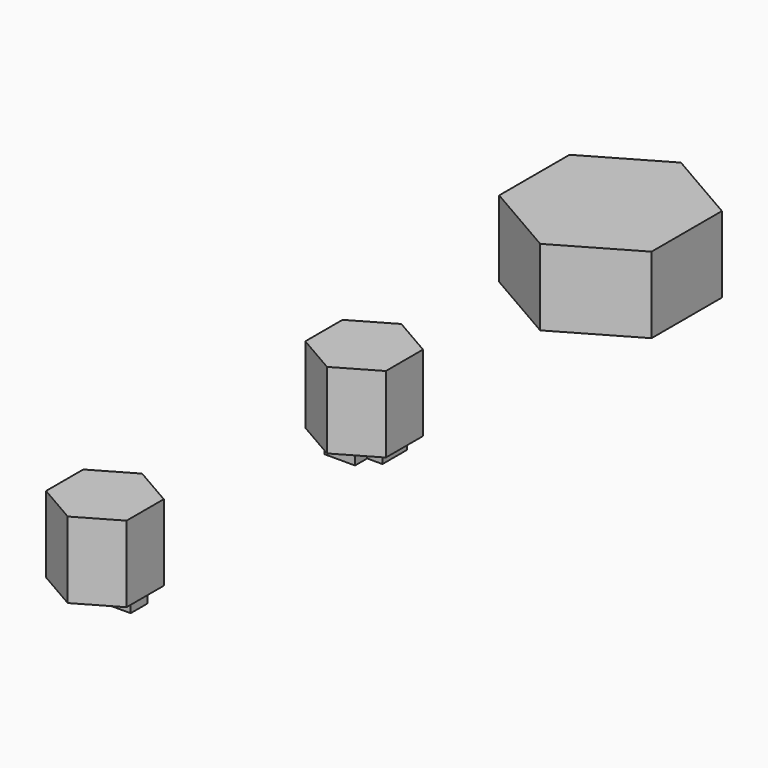
from build123d import *

# Parameters (mm, degrees)
F2_DEPTH = 5
F3_DEPTH = 0.8
F1_W     = 2.2638370283
F1_H     = 1.4


with BuildPart() as f2:
    # F0 (on Top) → F2 (new body)
    with BuildSketch(Plane.XY):
        Polygon((-3.3380598761, 14.5100246476), (-0.6966823946, 16.0350246476), (-0.6966823946, 19.0850246476), (-3.3380598761, 20.6100246476), (-5.9794373577, 19.0850246476), (-5.9794373577, 16.0350246476), align=None)
    extrude(amount=F2_DEPTH)

    # F1 (on Top) → F3, piece 2 (join)
    with BuildSketch(Plane.XY):
        Polygon((-1.3380598761, 17.5600246476), (-5.3380598761, 17.5600246476), (-5.3380598761, 16.5600246476), (-4.3380598761, 16.5600246476), (-4.3380598761, 15.5600246476), (-2.3380598761, 15.5600246476), (-2.3380598761, 16.5600246476), (-1.3380598761, 16.5600246476), align=None)
        Polygon((-5.3380598761, 18.5600246476), (-5.3380598761, 17.5600246476), (-1.3380598761, 17.5600246476), (-1.3380598761, 18.5600246476), (-2.3380598761, 18.5600246476), (-2.3380598761, 19.5600246476), (-4.3380598761, 19.5600246476), (-4.3380598761, 18.5600246476), align=None)
    extrude(amount=-F3_DEPTH)


with BuildPart() as f2b:
    # F0 (on Top) → F2, piece 2 (new body)
    with BuildSketch(Plane.XY):
        Polygon((-5.979437381, -5.2322964184), (-3.3380598995, -6.7572964184), (-0.6966824179, -5.2322964184), (-0.6966824179, -2.1822964184), (-3.3380598995, -0.6572964184), (-5.979437381, -2.1822964184), align=None)
    extrude(amount=F2_DEPTH)

    # F1 (on Top) → F3, piece 3 (join)
    with BuildSketch(Plane.XY):
        with Locations((-2.206141362, -3.7255681834)):
            Rectangle(F1_W, F1_H)
        with Locations((-4.4699783903, -3.7255681834)):
            Rectangle(F1_W, F1_H)
    extrude(amount=-F3_DEPTH)


with BuildPart() as f2c:
    # F0 (on Top) → F2, piece 3 (new body)
    with BuildSketch(Plane.XY):
        Polygon((-8.3380575449, 34.8855292327), (-3.3380598761, 31.9987792327), (1.6619377926, 34.8855292327), (1.6619377926, 40.6590292327), (-3.3380598761, 43.5457792327), (-8.3380575449, 40.6590292327), align=None)
    extrude(amount=F2_DEPTH)

    # F1 (on Top) → F3 (join)
    with BuildSketch(Plane.XY):
        Polygon((-0.9281197149, 38.1491725842), (-2.7281197149, 38.1491725842), (-1.3290444063, 41.8965167478), (-5.5102869956, 37.3933391249), (-3.7102869956, 37.3933391249), (-5.1093623042, 33.6459949613), align=None)
    extrude(amount=-F3_DEPTH)


solid = Compound([f2.part, f2b.part, f2c.part])
